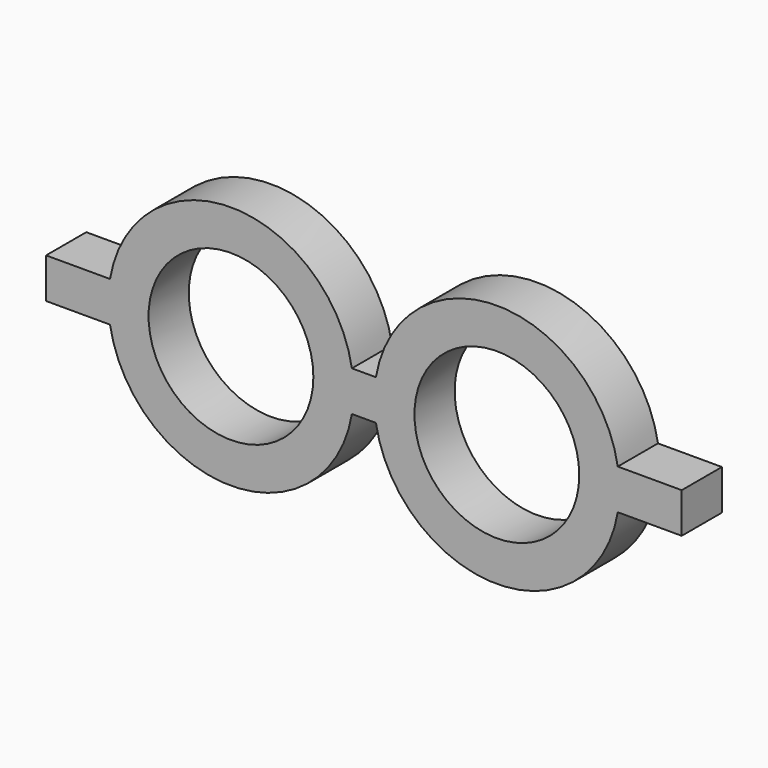
from build123d import *

# Parameters (mm, degrees)
F0_R     = 8.2
F1_DEPTH = 5


with BuildPart() as f1:
    # F0 (on Front) → F1 (new body)
    with BuildSketch(Plane.XZ):
        with BuildLine():
            Line((-18.4, -2), (-12.034949, -2))
            ThreePointArc((-12.034949, -2), (0, -12.2), (12.034949, -2))
            Line((12.034949, -2), (14.427051, -2))
            ThreePointArc((14.427051, -2), (26.462, -12.2), (38.496949, -2))
            Line((38.496949, -2), (44.862, -2))
            Line((44.862, -2), (44.862, 2))
            Line((44.862, 2), (38.496949, 2))
            ThreePointArc((38.496949, 2), (26.462, 12.2), (14.427051, 2))
            Line((14.427051, 2), (12.034949, 2))
            ThreePointArc((12.034949, 2), (0, 12.2), (-12.034949, 2))
            Line((-12.034949, 2), (-18.4, 2))
            Line((-18.4, 2), (-18.4, -2))
        make_face()
        Circle(F0_R, mode=Mode.SUBTRACT)
        with Locations((26.462, 0)):
            Circle(F0_R, mode=Mode.SUBTRACT)
    extrude(amount=F1_DEPTH)


solid = f1.part
